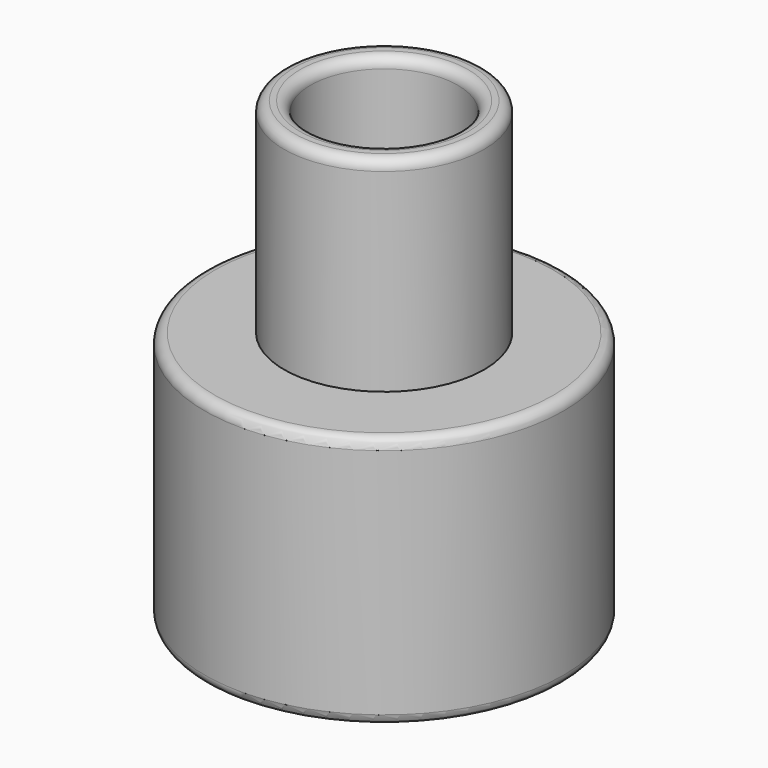
from build123d import *

# Parameters (mm, degrees)
F0_R     = 4.4
F1_DEPTH = 6.2
F2_R     = 2.45
F3_DEPTH = 5
F4_R     = 1.8034
F5_DEPTH = 11.201
F6_R     = 0.254


with BuildPart() as f1:
    # F0 (on Top) → F1 (new body)
    with BuildSketch(Plane.XY):
        Circle(F0_R)
    extrude(amount=F1_DEPTH)

    # F2 (on face) → F3 (join)
    with BuildSketch(Plane.XY.offset(6.2)):
        Circle(F2_R)
    extrude(amount=F3_DEPTH)

    # F4 (on face) → F5 (cut, through all)
    with BuildSketch(Plane(origin=(0, 0, 0), x_dir=(1, 0, 0), z_dir=(0, 0, -1))):
        Circle(F4_R)
    extrude(amount=-F5_DEPTH, mode=Mode.SUBTRACT)

    # F6
    f6_edges = [f1.edges().sort_by_distance(p)[0] for p in [
        (-2.45, 0, 11.2),
        (-1.8034, 0, 11.2),
        (-4.4, 0, 0),
        (-1.8034, 0, 0),
        (-4.4, 0, 6.2),
    ]]
    fillet(f6_edges, radius=F6_R)


solid = f1.part
